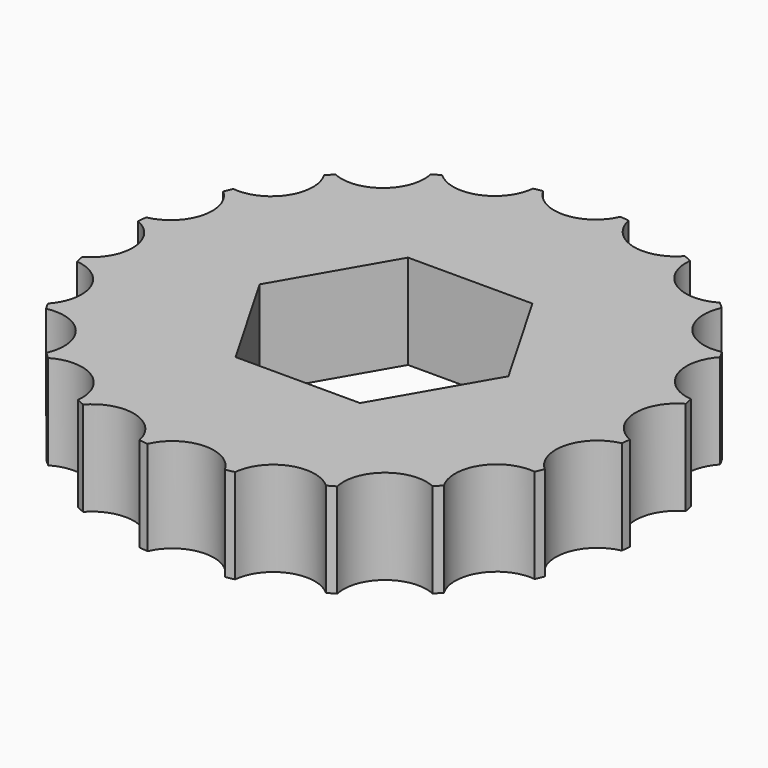
from build123d import *

# Parameters (mm, degrees)
F1_DEPTH = 2.5


with BuildPart() as f1:
    # F0 (on Top) → F1 (new body)
    with BuildSketch(Plane.XY):
        with BuildLine():
            ThreePointArc((-5.300001, 4.642809), (-5.328263, 3.484351), (-6.378211, 2.994013))
            ThreePointArc((-6.378211, 2.994013), (-6.427669, 2.886306), (-6.475308, 2.777784))
            ThreePointArc((-6.475308, 2.777784), (-6.144203, 1.667291), (-6.99124, 0.8765))
            ThreePointArc((-6.99124, 0.8765), (-7.004994, 0.758782), (-7.016766, 0.640849))
            ThreePointArc((-7.016766, 0.640849), (-6.358705, -0.312975), (-6.919918, -1.326811))
            ThreePointArc((-6.919918, -1.326811), (-6.896622, -1.443018), (-6.871374, -1.558816))
            ThreePointArc((-6.871374, -1.558816), (-5.950773, -2.262605), (-6.171226, -3.400245))
            ThreePointArc((-6.171226, -3.400245), (-6.11316, -3.503565), (-6.053364, -3.605894))
            ThreePointArc((-6.053364, -3.605894), (-4.960339, -3.990755), (-4.818451, -5.140839))
            ThreePointArc((-4.818451, -5.140839), (-4.731299, -5.221158), (-4.642809, -5.300001))
            ThreePointArc((-4.642809, -5.300001), (-3.484351, -5.328263), (-2.994013, -6.378211))
            ThreePointArc((-2.994013, -6.378211), (-2.886306, -6.427669), (-2.777784, -6.475308))
            ThreePointArc((-2.777784, -6.475308), (-1.667291, -6.144203), (-0.8765, -6.99124))
            ThreePointArc((-0.8765, -6.99124), (-0.758782, -7.004994), (-0.640849, -7.016766))
            ThreePointArc((-0.640849, -7.016766), (0.312975, -6.358705), (1.326811, -6.919918))
            ThreePointArc((1.326811, -6.919918), (1.443018, -6.896622), (1.558816, -6.871374))
            ThreePointArc((1.558816, -6.871374), (2.262605, -5.950773), (3.400245, -6.171226))
            ThreePointArc((3.400245, -6.171226), (3.503565, -6.11316), (3.605894, -6.053364))
            ThreePointArc((3.605894, -6.053364), (3.990755, -4.960339), (5.140839, -4.818451))
            ThreePointArc((5.140839, -4.818451), (5.221158, -4.731299), (5.300001, -4.642809))
            ThreePointArc((5.300001, -4.642809), (5.328263, -3.484351), (6.378211, -2.994013))
            ThreePointArc((6.378211, -2.994013), (6.427669, -2.886306), (6.475308, -2.777784))
            ThreePointArc((6.475308, -2.777784), (6.144203, -1.667291), (6.99124, -0.8765))
            ThreePointArc((6.99124, -0.8765), (7.004994, -0.758782), (7.016766, -0.640849))
            ThreePointArc((7.016766, -0.640849), (6.358705, 0.312975), (6.919918, 1.326811))
            ThreePointArc((6.919918, 1.326811), (6.896622, 1.443018), (6.871374, 1.558816))
            ThreePointArc((6.871374, 1.558816), (5.950773, 2.262605), (6.171226, 3.400245))
            ThreePointArc((6.171226, 3.400245), (6.11316, 3.503565), (6.053364, 3.605894))
            ThreePointArc((6.053364, 3.605894), (4.960339, 3.990755), (4.818451, 5.140839))
            ThreePointArc((4.818451, 5.140839), (4.731299, 5.221158), (4.642809, 5.300001))
            ThreePointArc((4.642809, 5.300001), (3.484351, 5.328263), (2.994013, 6.378211))
            ThreePointArc((2.994013, 6.378211), (2.886306, 6.427669), (2.777784, 6.475308))
            ThreePointArc((2.777784, 6.475308), (1.667291, 6.144203), (0.8765, 6.99124))
            ThreePointArc((0.8765, 6.99124), (0.758782, 7.004994), (0.640849, 7.016766))
            ThreePointArc((0.640849, 7.016766), (-0.312975, 6.358705), (-1.326811, 6.919918))
            ThreePointArc((-1.326811, 6.919918), (-1.443018, 6.896622), (-1.558816, 6.871374))
            ThreePointArc((-1.558816, 6.871374), (-2.262605, 5.950773), (-3.400245, 6.171226))
            ThreePointArc((-3.400245, 6.171226), (-3.503565, 6.11316), (-3.605894, 6.053364))
            ThreePointArc((-3.605894, 6.053364), (-3.990755, 4.960339), (-5.140839, 4.818451))
            ThreePointArc((-5.140839, 4.818451), (-5.221158, 4.731299), (-5.300001, 4.642809))
        make_face()
        Polygon((-3.290897, 0), (-1.645448, 2.85), (1.645448, 2.85), (3.290897, 0), (1.645448, -2.85), (-1.645448, -2.85), align=None, mode=Mode.SUBTRACT)
    extrude(amount=F1_DEPTH)


solid = f1.part
